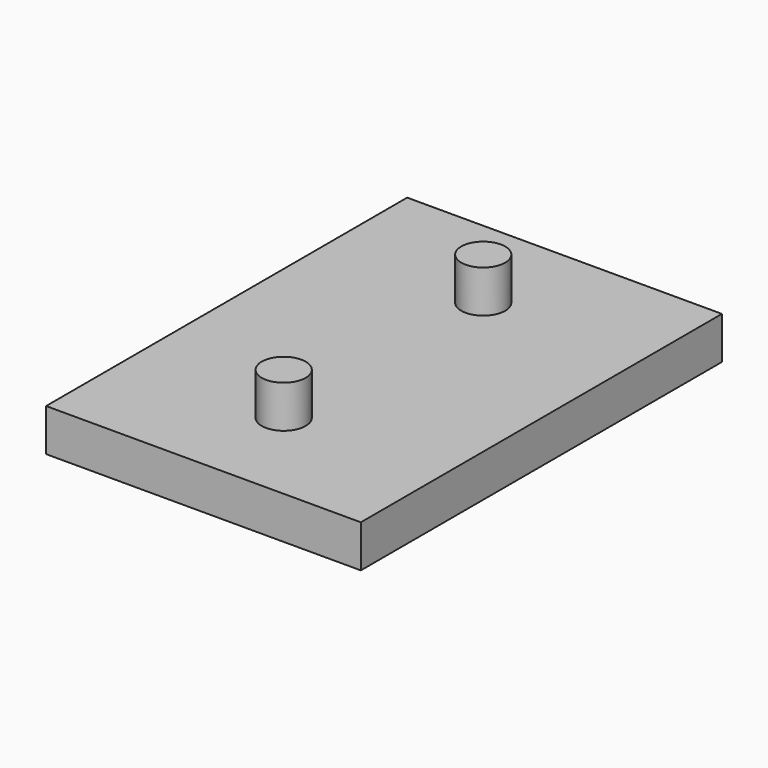
from build123d import *

# Parameters (mm, degrees)
F0_R     = 6.587006
F1_DEPTH = 12.7
F2_DEPTH = 25.4


with BuildPart() as f1:
    # F0 (on Top) → F1 (new body)
    with BuildSketch(Plane.XY):
        Polygon((0, 50.230512), (-47.195485, 50.230512), (-47.195485, 19.750512), (-47.195485, -54.646088), (-47.195485, -85.126088), (0, -85.126088), (47.195485, -85.126088), (47.195485, -54.646088), (47.195485, 19.750512), (47.195485, 50.230512), align=None)
        with Locations((0, -55.052097)):
            Circle(F0_R, mode=Mode.SUBTRACT)
        with Locations((0, 19.750512)):
            Circle(F0_R, mode=Mode.SUBTRACT)
        with Locations((0, 19.750512)):
            Circle(F0_R)
        with Locations((0, -55.052097)):
            Circle(F0_R)
    extrude(amount=F1_DEPTH)

    # F0 (on Top) → F2 (join)
    with BuildSketch(Plane.XY):
        with Locations((0, 19.750512)):
            Circle(F0_R)
        with Locations((0, -55.052097)):
            Circle(F0_R)
    extrude(amount=F2_DEPTH)


solid = f1.part
